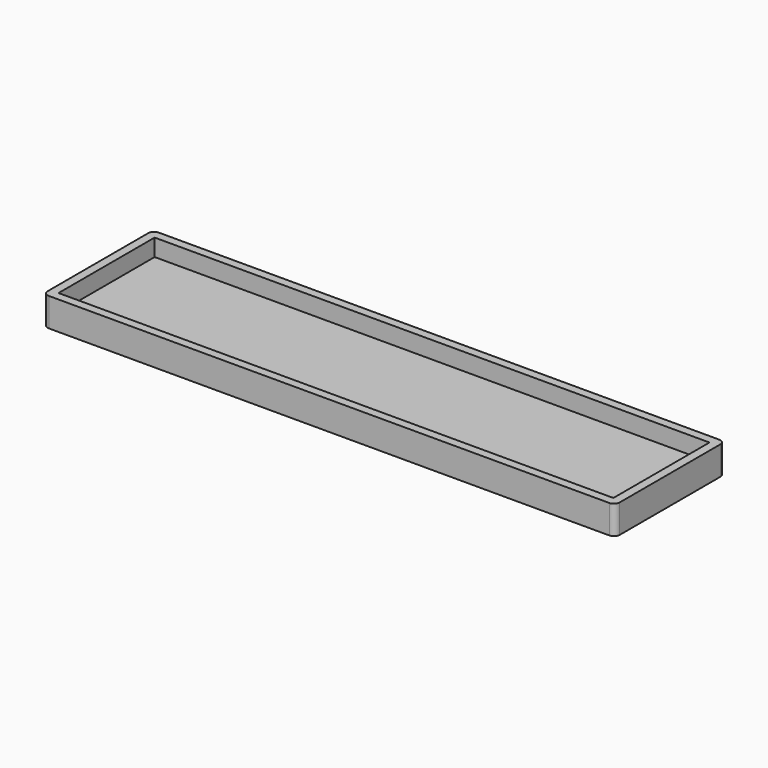
from build123d import *

# Parameters (mm, degrees)
F0_W     = 100
F0_H     = 24
F0_W_2   = 97
F0_H_2   = 21
F1_DEPTH = 2
F2_DEPTH = 5
F3_R     = 1


with BuildPart() as f1:
    # F0 (on Top) → F1 (new body)
    with BuildSketch(Plane.XY):
        with Locations((24.1434355296, 7.8797731549)):
            Rectangle(F0_W, F0_H)
        with Locations((24.1434355296, 7.8797731549)):
            Rectangle(F0_W_2, F0_H_2, mode=Mode.SUBTRACT)
        with Locations((24.1434355296, 7.8797731549)):
            Rectangle(F0_W_2, F0_H_2)
    extrude(amount=F1_DEPTH)

    # F0 (on Top) → F2 (join)
    with BuildSketch(Plane.XY):
        with Locations((24.1434355296, 7.8797731549)):
            Rectangle(F0_W, F0_H)
        with Locations((24.1434355296, 7.8797731549)):
            Rectangle(F0_W_2, F0_H_2, mode=Mode.SUBTRACT)
    extrude(amount=F2_DEPTH)

    # F3
    f3_edges = [f1.edges().sort_by_distance(p)[0] for p in [
        (74.143436, 19.879773, 2.5),
        (74.143436, -4.120227, 2.5),
        (-25.856564, -4.120227, 2.5),
        (-25.856564, 19.879773, 2.5),
    ]]
    fillet(f3_edges, radius=F3_R)


solid = f1.part
